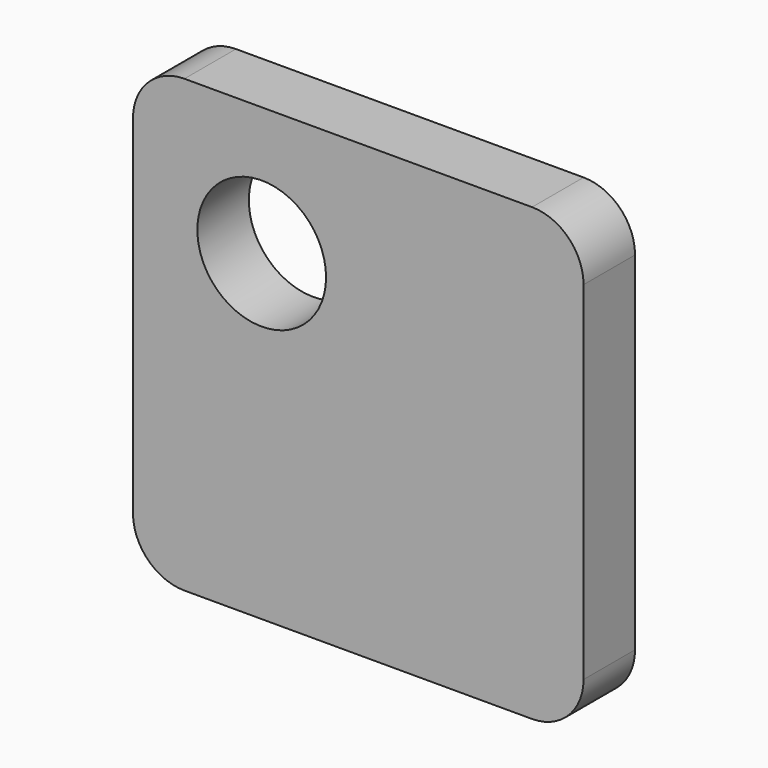
from build123d import *

# Parameters (mm, degrees)
F0_W     = 44.45
F0_H     = 44.45
F1_DEPTH = 3.175
F2_R     = 5.08
F3_R     = 6.35
F4_DEPTH = 6.351


with BuildPart() as f1:
    # F0 (on Front) → F1 (new body, symmetric)
    with BuildSketch(Plane.XZ):
        Rectangle(F0_W, F0_H)
    extrude(amount=F1_DEPTH, both=True)

    # F2
    f2_edges = [f1.edges().sort_by_distance(p)[0] for p in [
        (-22.225, 0, 22.225),
        (22.225, 0, 22.225),
        (22.225, 0, -22.225),
        (-22.225, 0, -22.225),
    ]]
    fillet(f2_edges, radius=F2_R)

    # F3 (on face) → F4 (cut, through all)
    with BuildSketch(Plane.XZ.offset(3.175)):
        with Locations((-9.525, 9.525)):
            Circle(F3_R)
    extrude(amount=-F4_DEPTH, mode=Mode.SUBTRACT)


solid = f1.part
